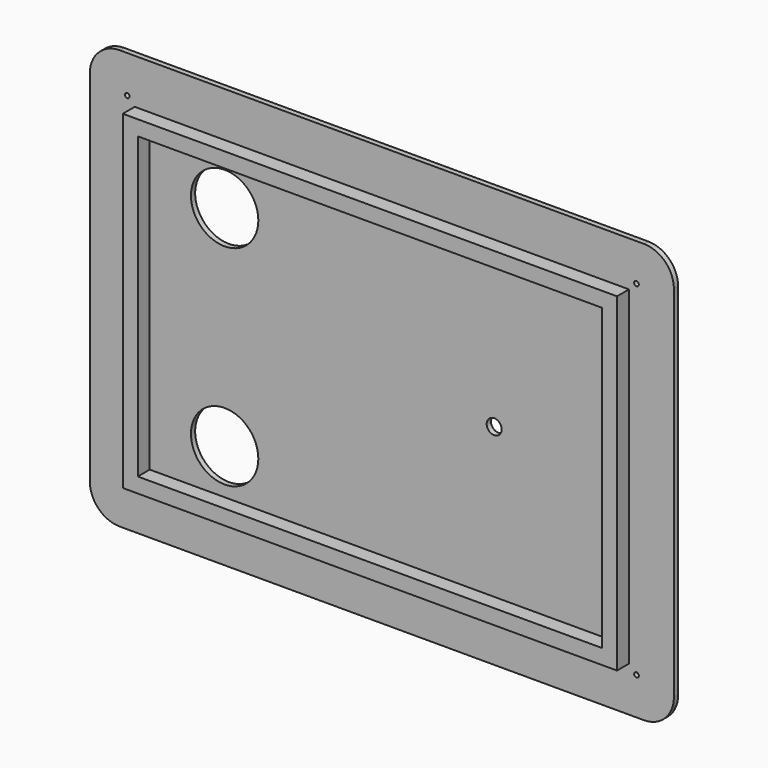
from build123d import *

# Parameters (mm, degrees)
F0_W      = 990.6
F0_H      = 711.2
F1_DEPTH  = 9.017
F2_R      = 50.8
F3_R      = 3.96875
F4_DEPTH  = 9.018
F5_R      = 12.7
F6_DEPTH  = 9.018
F7_W      = 838.2
F7_H      = 558.8
F7_W_2    = 787.4
F7_H_2    = 508
F8_DEPTH  = 25.4
F9_R      = 57.15
F10_DEPTH = 9.018


with BuildPart() as f1:
    # F0 (on Front) → F1 (new body)
    with BuildSketch(Plane.XZ):
        Rectangle(F0_W, F0_H)
    extrude(amount=-F1_DEPTH)

    # F2
    f2_edges = [f1.edges().sort_by_distance(p)[0] for p in [
        (495.3, 4.5085, 355.6),
        (495.3, 4.5085, -355.6),
        (-495.3, 4.5085, -355.6),
        (-495.3, 4.5085, 355.6),
    ]]
    fillet(f2_edges, radius=F2_R)

    # F3 (on Front) → F4 (cut, through all)
    with BuildSketch(Plane.XZ):
        with Locations((-431.8, 292.1)):
            Circle(F3_R)
        with Locations((431.8, 292.1)):
            Circle(F3_R)
        with Locations((431.8, -292.1)):
            Circle(F3_R)
        with Locations((-431.8, -292.1)):
            Circle(F3_R)
    extrude(amount=-F4_DEPTH, mode=Mode.SUBTRACT)

    # F5 (on Front) → F6 (cut, through all)
    with BuildSketch(Plane.XZ):
        with Locations((190.5, 0)):
            Circle(F5_R)
    extrude(amount=-F6_DEPTH, mode=Mode.SUBTRACT)

    # F7 (on Front) → F8 (join)
    with BuildSketch(Plane.XZ):
        Rectangle(F7_W, F7_H)
        Rectangle(F7_W_2, F7_H_2, mode=Mode.SUBTRACT)
    extrude(amount=F8_DEPTH)

    # F9 (on Front) → F10 (cut, through all)
    with BuildSketch(Plane.XZ):
        with Locations((-266.7, 177.8)):
            Circle(F9_R)
        with Locations((-266.7, -177.8)):
            Circle(F9_R)
    extrude(amount=-F10_DEPTH, mode=Mode.SUBTRACT)


solid = f1.part
